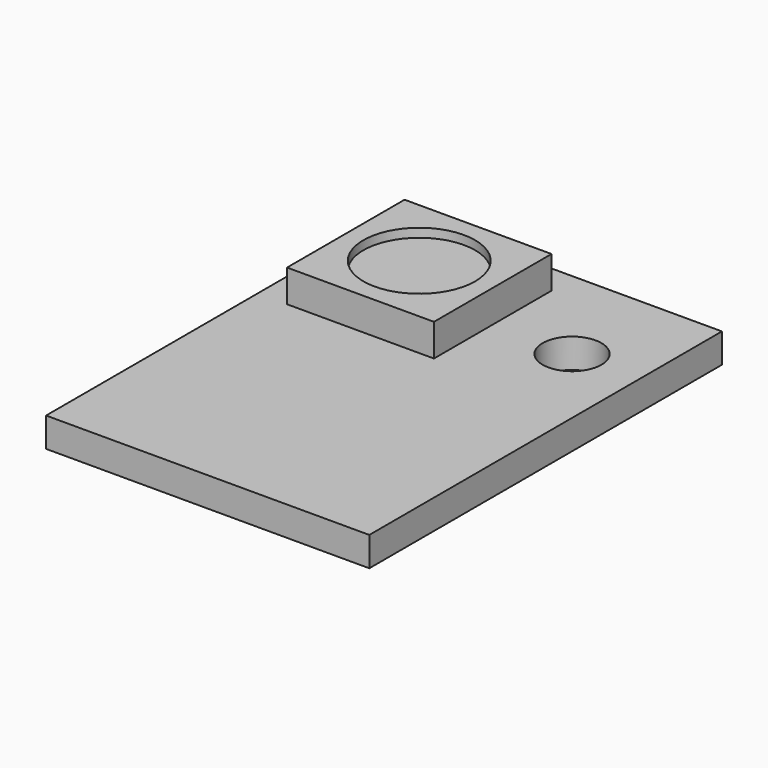
from build123d import *

# Parameters (mm, degrees)
SKETCH_W     = 11
SKETCH_H     = 15
SKETCH_R     = 1
PAD_DEPTH    = 1
SKETCH001_W  = 5
SKETCH001_H  = 5
PAD001_DEPTH = 1.1
SKETCH002_R  = 1.9
POCKET_DEPTH = 0.3


with BuildPart() as part:
    # Sketch → Pad (new body)
    with BuildSketch(Plane.XY):
        with Locations((5.5, 7.5)):
            Rectangle(SKETCH_W, SKETCH_H)
        with Locations((8.7, 11.5)):
            Circle(SKETCH_R, mode=Mode.SUBTRACT)
    extrude(amount=PAD_DEPTH)

    # Sketch001 (on Face7 of Pad) → Pad001 (join)
    with BuildSketch(Plane.XY.offset(1)):
        with Locations((3.5, 11.5)):
            Rectangle(SKETCH001_W, SKETCH001_H)
    extrude(amount=PAD001_DEPTH)

    # Sketch002 (on Face12 of Pad001) → Pocket (cut)
    with BuildSketch(Plane.XY.offset(2.1)):
        with Locations((3.5, 11.5)):
            Circle(SKETCH002_R)
    extrude(amount=-POCKET_DEPTH, mode=Mode.SUBTRACT)


solid = part.part
